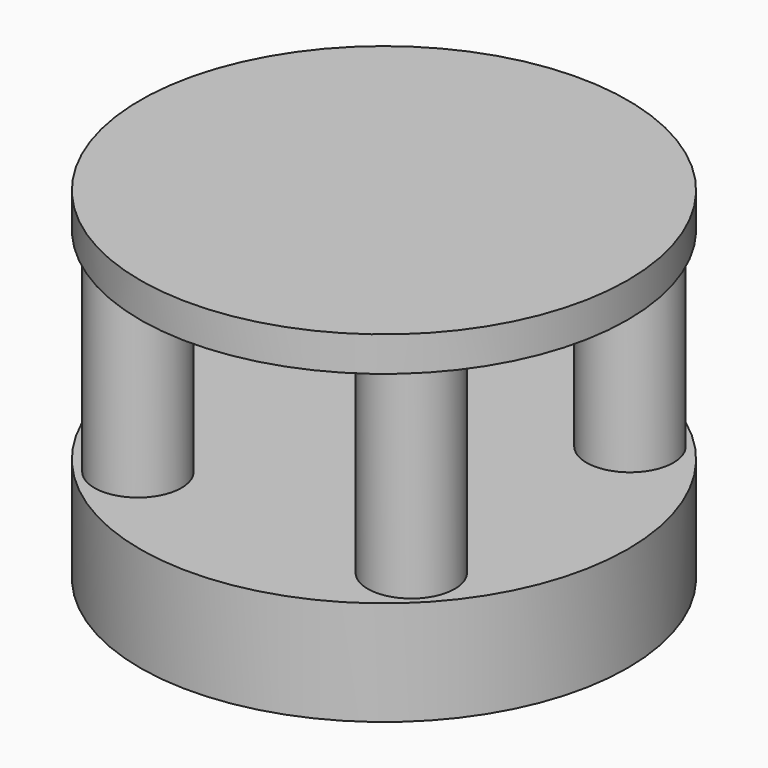
from build123d import *

# Parameters (mm, degrees)
F0_R     = 88.9
F1_DEPTH = 38.1
F2_R     = 15.875
F3_DEPTH = 114.3
F4_R     = 88.9
F5_DEPTH = 12.7


with BuildPart() as f1:
    # F0 (on Top) → F1 (new body)
    with BuildSketch(Plane.XY):
        Circle(F0_R)
    extrude(amount=F1_DEPTH)


with BuildPart() as f3:
    # F2 (on Top) → F3 (new body)
    with BuildSketch(Plane.XY):
        with Locations((-49.84499, 49.84499)):
            Circle(F2_R)
        with Locations((49.84499, 49.84499)):
            Circle(F2_R)
        with Locations((-49.84499, -49.84499)):
            Circle(F2_R)
        with Locations((49.84499, -49.84499)):
            Circle(F2_R)
    extrude(amount=F3_DEPTH)


with BuildPart() as f5:
    # F4 (on Top) → F5 (new body)
    with BuildSketch(Plane.XY):
        Circle(F4_R)
    extrude(amount=F5_DEPTH)


with BuildPart() as f5_1:
    # F6: moved
    add(f5.part.moved(Location((0, 0, 111.76))))


solid = Compound([f1.part, f3.part, f5_1.part])
